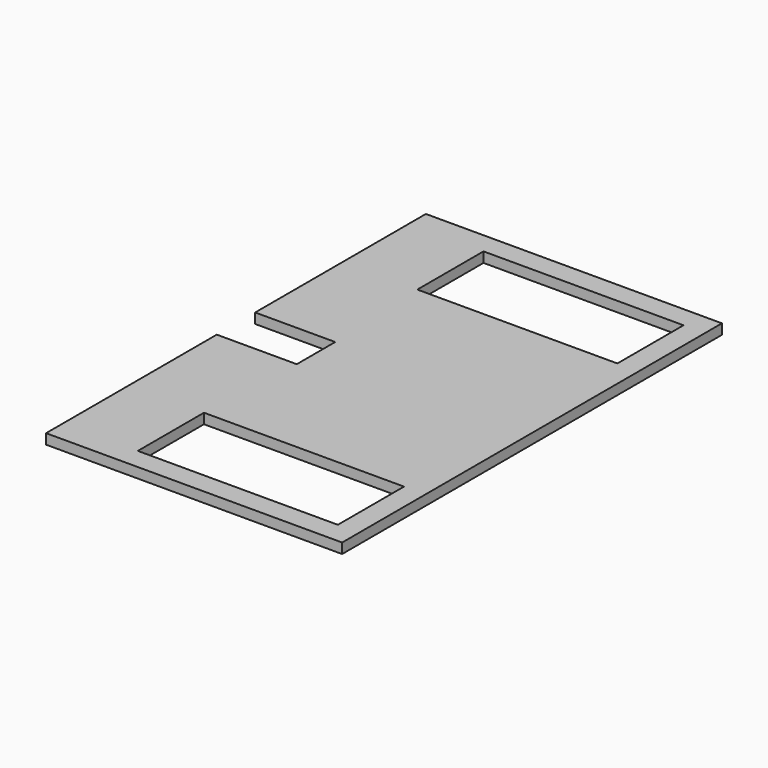
from build123d import *

# Parameters (mm, degrees)
F0_W     = 75
F0_H     = 31
F0_W_2   = 3.81
F0_H_2   = 15
F1_DEPTH = 3.81


with BuildPart() as f1:
    # F0 (on Top) → F1 (new body)
    with BuildSketch(Plane.XY):
        Polygon((42.5, 79), (42.5, 89), (-68.5, 89), (-68.5, 85.19), (-68.5, 9), (-38.5, 9), (-38.5, 0), (-38.5, -9), (-68.5, -9), (-68.5, -85.19), (-68.5, -89), (42.5, -89), (42.5, -79), (38.69, -79), (38.69, -64), (42.5, -64), (42.5, -54), (38.69, -54), (38.69, -39), (42.5, -39), (42.5, 39), (38.69, 39), (38.69, 54), (42.5, 54), (42.5, 64), (38.69, 64), (38.69, 79), align=None)
        with Locations((-3, -65.5)):
            Rectangle(F0_W, F0_H, mode=Mode.SUBTRACT)
        with Locations((-3, 65.5)):
            Rectangle(F0_W, F0_H, mode=Mode.SUBTRACT)
        with Locations((40.595, 71.5)):
            Rectangle(F0_W_2, F0_H_2)
        with Locations((40.595, 46.5)):
            Rectangle(F0_W_2, F0_H_2)
        with Locations((40.595, -46.5)):
            Rectangle(F0_W_2, F0_H_2)
        with Locations((40.595, -71.5)):
            Rectangle(F0_W_2, F0_H_2)
    extrude(amount=F1_DEPTH)


solid = f1.part
